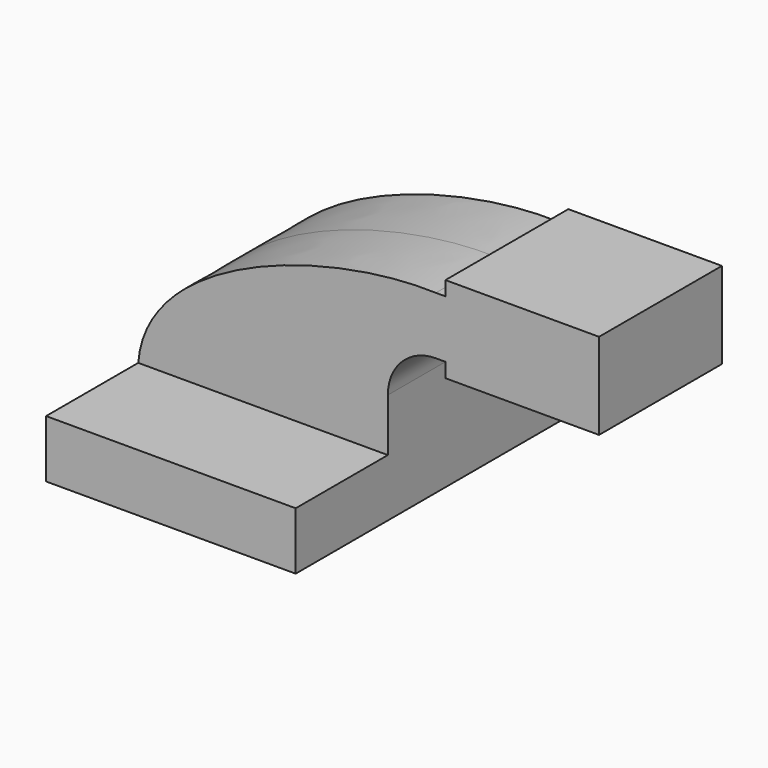
from build123d import *

# Parameters (mm, degrees)
F1_DEPTH = 63.5
F0_W     = 25.4048225164
F0_H     = 19.05
F2_DEPTH = 25.4


with BuildPart() as f1:
    # F0 (on Front) → F1 (new body, symmetric)
    with BuildSketch(Plane.XZ):
        Polygon((41.275, -9.525), (41.275, 9.525), (22.225, 9.525), (-41.275, 9.525), (-41.275, -9.525), align=None)
    extrude(amount=F1_DEPTH, both=True)

    # F0 (on Front) → F2 (join, symmetric)
    with BuildSketch(Plane.XZ):
        Polygon((41.275, -9.525), (41.275, 9.525), (22.225, 9.525), (-41.275, 9.525), (-41.275, -9.525), align=None)
        with BuildLine():
            Line((22.225, 9.525), (41.275, 9.525))
            Line((41.275, 9.525), (41.275, 27.0002))
            ThreePointArc((41.275, 27.0002), (45.9246798487, 38.2255201513), (57.15, 42.8752))
            Line((57.15, 42.8752), (60.325, 42.8752))
            Line((60.325, 42.8752), (60.325, 61.9252))
            Line((60.325, 61.9252), (57.15, 61.9252))
            ThreePointArc((57.15, 61.9252), (32.4542956671, 51.6959043329), (22.225, 27.0002))
            Line((22.225, 27.0002), (22.225, 9.525))
        make_face()
        with BuildLine():
            Line((-41.275, 9.525), (22.225, 9.525))
            Line((22.225, 9.525), (22.225, 27.0002))
            ThreePointArc((22.225, 27.0002), (32.4542956671, 51.6959043329), (57.15, 61.9252))
            add(Edge.make_bspline(
                [(-41.275, 9.525), (-38.6923365295, 44.0511740744), (21.6252729297, 63.161700964), (57.15, 61.9252)],
                knots=[0, 0, 0, 0, 111.5045361635, 111.5045361635, 111.5045361635, 111.5045361635], degree=3))
        make_face()
        Polygon((85.7298225164, 42.8752), (60.325, 42.8752), (60.325, 38.1), (111.125, 38.1), (111.125, 66.675), (60.325, 66.675), (60.325, 61.9252), (85.7298225164, 61.9252), align=None)
        with Locations((73.0274112582, 52.4002)):
            Rectangle(F0_W, F0_H)
    extrude(amount=F2_DEPTH, both=True)


solid = f1.part
